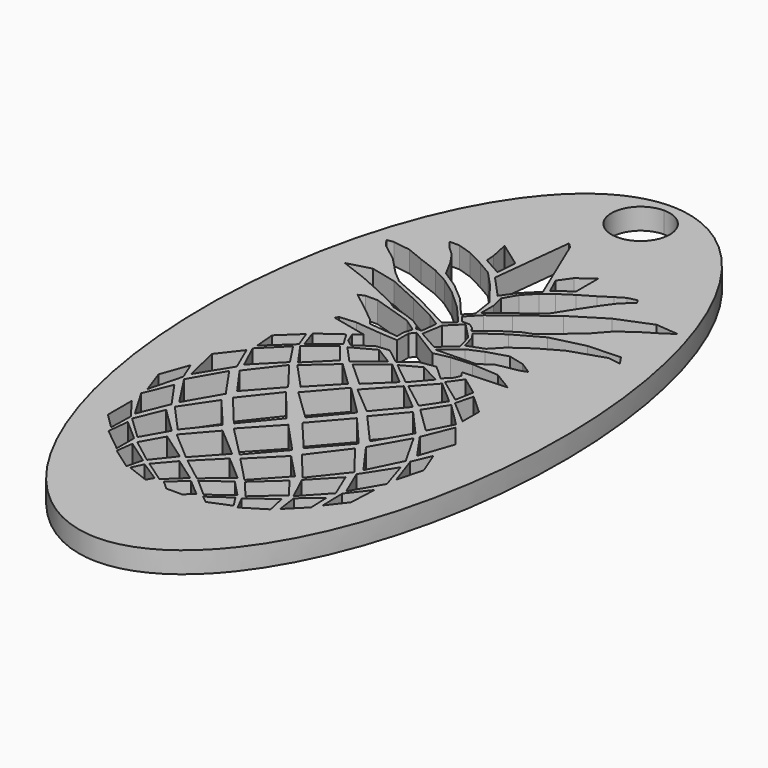
from build123d import *

# Parameters (mm, degrees)
F1_DEPTH = 5.08
F2_SCALE = 0.6


with BuildPart() as f1:
    # F0 (on Top) → F1 (new body)
    with BuildSketch(Plane.XY):
        with BuildLine():
            add(Edge.make_bspline(
                [(0, 86.1269086599), (-42.7598868764, 86.1269086599), (-42.7598868764, 0), (-42.7598868764, -86.1269086599), (0, -86.1269086599)],
                knots=[3.1415926536, 3.1415926536, 3.1415926536, 4.7123889804, 4.7123889804, 6.2831853072, 6.2831853072, 6.2831853072], degree=2, weights=[1, 0.7071067812, 1, 0.7071067812, 1]))
            add(Edge.make_bspline(
                [(0, -86.1269086599), (42.7598868764, -86.1269086599), (42.7598868764, 0), (42.7598868764, 86.1269086599), (0, 86.1269086599)],
                knots=[0, 0, 0, 1.5707963268, 1.5707963268, 3.1415926536, 3.1415926536, 3.1415926536], degree=2, weights=[1, 0.7071067812, 1, 0.7071067812, 1]))
        make_face()
        Polygon((-29.5832022, -45.8294486), (-29.5832022, -38.667436), (-25.7725926, -43.7403494), (-25.8992116, -49.4912396), align=None, mode=Mode.SUBTRACT)
        Polygon((-25.3595124, -50.9485392), (-24.8086626, -45.8294486), (-19.7584822, -50.2598436), (-19.7584822, -55.470552), align=None, mode=Mode.SUBTRACT)
        Polygon((-13.8358372, -59.9936316), (-19.1614552, -56.2291738), (-18.61058, -52.1891006), (-12.82573, -56.2291738), align=None, mode=Mode.SUBTRACT)
        Polygon((-19.5748656, -49.4912396), (-25.0610116, -44.2457332), (-22.2835724, -37.4968008), (-16.1544, -43.4881782), align=None, mode=Mode.SUBTRACT)
        Polygon((-12.413361, -55.6093884), (-18.3223916, -51.1101086), (-15.367889, -45.8294486), (-8.4887054, -50.6498352), align=None, mode=Mode.SUBTRACT)
        Polygon((-12.9173732, -59.9936316), (-11.608943, -57.2851026), (-6.6734944, -60.4528636), (-7.5917806, -62.0599978), align=None, mode=Mode.SUBTRACT)
        Polygon((-1.4851634, -56.298084), (-5.709031, -60.246514), (-11.0575344, -56.5506108), (-7.3388982, -52.1891006), align=None, mode=Mode.SUBTRACT)
        Polygon((1.521714, -62.4272564), (-2.2885654, -62.4272564), (-4.4923964, -60.4528636), (-0.5439664, -57.1703708), (3.4271966, -60.5906586), align=None, mode=Mode.SUBTRACT)
        Polygon((-7.3866248, -50.1971564), (-14.4859248, -44.0793378), (-8.7532972, -37.4968008), (-1.4851634, -43.7148478), align=None, mode=Mode.SUBTRACT)
        Polygon((-0.4126992, -55.6093884), (-6.2714378, -51.1101086), (-0.6393942, -45.4787508), (5.446014, -50.7194312), align=None, mode=Mode.SUBTRACT)
        Polygon((-22.90318, -35.085909), (-25.8873244, -42.385742), (-30.1342552, -35.1775522), (-27.4253706, -28.6122364), align=None, mode=Mode.SUBTRACT)
        Polygon((-32.3835522, -27.1890744), (-29.9962824, -20.4859382), (-28.1598624, -24.9852434), (-30.27172, -33.088453), align=None, mode=Mode.SUBTRACT)
        Polygon((-22.3063054, -33.547685), (-27.4253706, -25.6970022), (-22.9028244, -17.8001422), (-17.6233836, -25.4444754), align=None, mode=Mode.SUBTRACT)
        Polygon((-29.7434, -14.4253204), (-25.6585466, -9.1684602), (-22.9028244, -15.5043378), (-27.700986, -23.2630218), align=None, mode=Mode.SUBTRACT)
        Polygon((-25.245314, -6.5050416), (-25.6585466, -1.5006828), (-20.9987134, 2.9066236), (-19.483578, -1.1565382), align=None, mode=Mode.SUBTRACT)
        Polygon((-15.588361, -42.385742), (-21.8060778, -35.4989892), (-16.6907972, -27.9280366), (-10.1856032, -35.6450646), align=None, mode=Mode.SUBTRACT)
        Polygon((-0.1984248, -43.0534064), (-7.650861, -35.4989892), (-0.6393942, -27.9280366), (6.371717, -35.4907088), align=None, mode=Mode.SUBTRACT)
        Polygon((-2.5355804, -26.1200646), (-8.9296748, -33.8811616), (-15.588361, -25.8406646), (-9.238361, -17.8001422), align=None, mode=Mode.SUBTRACT)
        Polygon((-16.6360094, -23.2630218), (-21.4794846, -16.4682678), (-15.6488384, -8.8701118), (-10.1856032, -16.0321244), align=None, mode=Mode.SUBTRACT)
        Polygon((-22.3517714, -14.0566902), (-25.1982986, -7.8816962), (-19.8037958, -2.5104598), (-16.2687762, -7.8816962), align=None, mode=Mode.SUBTRACT)
        Polygon((-14.9832314, -7.0555612), (-18.885662, -1.5230856), (-13.0550158, 3.1367476), (-9.405112, -1.5230856), align=None, mode=Mode.SUBTRACT)
        Polygon((0.021717, -23.620984), (-7.3866248, -16.477234), (-0.8306054, -8.8701118), (6.371717, -15.9849312), align=None, mode=Mode.SUBTRACT)
        Polygon((-8.444611, -14.463903), (-14.4270222, -7.9668116), (-8.047736, -2.3371556), (-2.2561804, -7.9668116), align=None, mode=Mode.SUBTRACT)
        Polygon((-0.5956554, -6.6400934), (-6.5341246, -1.2784836), (-0.727583, 3.3685988), (4.8727614, -1.3963142), align=None, mode=Mode.SUBTRACT)
        Polygon((9.8088958, -56.2177946), (4.666742, -59.9936316), (0.3972306, -56.2177946), (5.9524646, -52.1891006), align=None, mode=Mode.SUBTRACT)
        Polygon((11.8976648, -59.9936316), (6.8474844, -62.0599978), (5.1490626, -60.6826574), (10.0845112, -57.1703708), align=None, mode=Mode.SUBTRACT)
        Polygon((6.9453252, -50.5440696), (0.9481058, -44.2881258), (7.7018642, -37.4968008), (13.4276338, -43.4940202), align=None, mode=Mode.SUBTRACT)
        Polygon((18.2338726, -56.8262008), (12.9311908, -60.085605), (11.255502, -56.780049), (17.2237908, -52.1891006), align=None, mode=Mode.SUBTRACT)
        Polygon((11.255502, -55.6093884), (7.4745088, -51.1101086), (13.6922002, -45.4787508), (17.3522894, -50.1971564), align=None, mode=Mode.SUBTRACT)
        Polygon((23.6740446, -51.4315202), (19.5192396, -55.6093884), (18.8305694, -50.6053852), (23.4904026, -46.611159), align=None, mode=Mode.SUBTRACT)
        Polygon((18.2338726, -49.9325646), (15.3237946, -43.8471564), (21.0564476, -37.8499116), (23.6740446, -44.0793378), align=None, mode=Mode.SUBTRACT)
        Polygon((28.21813, -45.163867), (24.866727, -49.4795302), (24.7058434, -43.419268), (28.516453, -38.5299712), align=None, mode=Mode.SUBTRACT)
        Polygon((14.4559782, -25.6739136), (7.5626976, -33.547685), (0.9481058, -25.6739136), (7.7390752, -17.8001422), align=None, mode=Mode.SUBTRACT)
        Polygon((14.8807678, -43.0534064), (8.9737946, -35.8214422), (15.147417, -27.6193504), (21.0564476, -35.2350832), align=None, mode=Mode.SUBTRACT)
        Polygon((21.8825826, -33.547685), (16.3821364, -25.8995672), (21.1477352, -17.5651922), (25.7307588, -25.6739136), align=None, mode=Mode.SUBTRACT)
        Polygon((7.4300588, -14.463903), (0.5801614, -8.6868254), (6.5188338, -2.1897086), (13.0744976, -7.7166724), align=None, mode=Mode.SUBTRACT)
        Polygon((15.51432, -23.620984), (8.7526368, -15.9849312), (14.3970756, -9.281795), (20.159345, -15.7716728), align=None, mode=Mode.SUBTRACT)
        Polygon((13.6419082, -6.6400934), (7.1685658, -1.6815562), (11.4611658, 3.116072), (16.9705528, -1.6815562), align=None, mode=Mode.SUBTRACT)
        Polygon((23.8335312, -8.2017616), (20.9868516, -13.6880854), (14.8807678, -7.742174), (18.2094124, -2.6000202), align=None, mode=Mode.SUBTRACT)
        Polygon((24.0171732, -1.5440914), (24.0171732, -6.47954), (18.2783226, -1.589913), (19.35734, 2.6795984), align=None, mode=Mode.SUBTRACT)
        Polygon((28.8148014, -35.1551748), (24.7058434, -42.2251886), (21.8825826, -35.6140512), (26.611326, -28.2453334), align=None, mode=Mode.SUBTRACT)
        Polygon((30.7430424, -26.5455146), (29.0900612, -32.6974454), (26.5882374, -25.373838), (28.4933898, -20.782915), align=None, mode=Mode.SUBTRACT)
        Polygon((28.8148014, -14.6537426), (26.0828536, -22.688042), (21.6755218, -16.3748974), (24.5449598, -9.281795), align=None, mode=Mode.SUBTRACT)
        Polygon((-18.7707778, -0.421005), (-20.2170284, 3.8026848), (-15.0521416, 7.521321), (-13.0550158, 4.1468548), align=None, mode=Mode.SUBTRACT)
        Polygon((-19.483578, 18.3299862), (-23.4817666, 21.3726776), (-21.9824554, 21.99005), (-19.1161416, 21.99005), (-9.7387619317, 18.9904179424), (-6.5341246, 16.7865806), (-7.1657972, 14.8463), (-7.1657972, 12.861925), (-14.2112830654, 13.5938227177), (-15.367889, 14.9785832), align=None, mode=Mode.SUBTRACT)
        Polygon((-7.7375004, -0.7176262), (-11.6451126, 3.550158), (-6.3147465698, 6.4364629798), (-2.074291, 3.8143942), align=None, mode=Mode.SUBTRACT)
        Polygon((-26.877264, 27.4581112), (-33.3595472, 29.92755), (-27.7592028, 31.4268612), (-21.4973916, 29.92755), (-14.145387, 26.5761724), (-7.650861, 23.3129582), (-4.5639439486, 21.3560499251), (-4.6522386, 20.0497694), (-4.9609248, 17.4425102), (-6.3279528, 17.4425102), (-6.8597018, 18.418175), (-8.7973916, 19.6528944), (-11.6451126, 20.7112362), (-15.000986, 21.6372694), (-16.9994834, 22.9160832), (-21.8501722, 25.2091444), align=None, mode=Mode.SUBTRACT)
        Polygon((-1.7418304, 24.4346984), (-4.078986, 22.386925), (-12.986639, 27.0612362), (-20.8359502, 30.5449224), (-23.4834938, 32.7938638), (-27.5387308, 37.0272056), (-31.816167, 40.2904198), (-33.0949808, 42.0983918), (-31.5515752, 42.3629836), (-27.3182334, 41.7456112), (-23.2172002, 40.0699224), (-18.2782972, 38.2178306), (-14.5300446, 36.2334556), (-10.3772040457, 33.2802720368), (-5.7637151331, 29.076712206), align=None, mode=Mode.SUBTRACT)
        Polygon((-1.4331442, 29.1338), (-3.3293304, 27.2376138), (-7.4303636, 32.088328), (-11.7518942, 35.7483918), (-15.9411416, 38.4824224), (-18.0137054, 42.3841672), (-19.953986, 45.2292974), (-22.114764, 47.2136724), (-23.4834938, 48.933481), (-21.0543648, 48.933481), (-17.6168304, 47.8310448), (-13.4276084, 45.6702668), (-10.032111, 43.6858918), (-6.5529751591, 39.9616807699), (-2.2012668196, 34.3352295458), align=None, mode=Mode.SUBTRACT)
        Polygon((-8.3112409338, 49.7640147805), (-8.706850931, 44.884826988), (-13.2783418521, 47.4343113601), (-13.4276084, 49.6390168), (-14.3536416, 54.092856), align=None, mode=Mode.SUBTRACT)
        Polygon((-0.330708, 40.7313892), (-2.6678636, 37.4240806), (-7.6949554, 42.8921418), (-5.5342028, 62.427231), (-4.3876722, 61.2807004), (2.9324808, 43.994578), align=None, mode=Mode.SUBTRACT)
        Polygon((9.5329502, 3.6669472), (5.7681368, -0.7176262), (0.2129282, 3.7585904), (4.626297392, 6.1407587491), align=None, mode=Mode.SUBTRACT)
        Polygon((2.4915114, 7.2019668), (-0.8306054, 4.5716444), (-4.6522386, 7.521321), (-7.7831442, 7.2019668), (-11.6451126, 4.5699172), (-13.2512054, 5.8063638), (-14.145387, 8.099425), (-12.589764, 9.510522), (-20.9682334, 11.4067082), (-20.4831696, 12.1563638), (-16.6360094, 12.46505), (-10.3671327233, 11.856562458), (-6.1515498, 11.5830858), (-6.1515498, 15.066772), (-5.1814222, 16.257397), (2.271014, 11.6272056), (6.019292, 12.4209556), (11.002264, 12.7737108), (17.3963838, 12.3768358), (22.0266006, 9.5546164), (11.4611658, 9.0254582), (12.3251976, 7.8327758), (11.6196364, 6.201156), (9.8998532, 4.5716444), (6.371717, 7.7907388), align=None, mode=Mode.SUBTRACT)
        Polygon((0.9481058, 13.7879582), (-4.078986, 16.6101776), (-3.2662590966, 21.5072780848), (-0.1078988474, 24.6122734623), (3.5962847526, 20.7758066623), (4.652264, 16.9629582), align=None, mode=Mode.SUBTRACT)
        Polygon((17.4752762, -0.4650994), (11.4611658, 3.919474), (13.8024616, 7.2019668), (18.2783226, 3.919474), align=None, mode=Mode.SUBTRACT)
        Polygon((11.4611658, 13.3028944), (1.7418558, 13.082397), (6.1065396294, 16.6646596044), (9.6298428252, 18.1772336364), (14.4559782, 19.6528944), (18.2783226, 18.7268612), (21.1477352, 16.8747694), (19.35734, 16.258794), (14.4559782, 15.3313638), align=None, mode=Mode.SUBTRACT)
        Polygon((9.3265752, 37.8209556), (-0.7716774, 30.0598332), (-0.7716774, 33.7640168), (-1.5419172123, 37.0165854692), (0.286639, 40.1581112), (2.844292, 42.8480474), (5.3578252, 44.788328), (8.5769196, 46.8967312), (11.972417, 48.8893612), (14.7064476, 50.6532642), (16.734917, 51.8879836), (18.9838838, 52.4171418), (19.4689476, 51.4470142), (16.91132, 49.1117636), (14.9710394, 46.4640168), (12.4133864, 42.6716698), align=None, mode=Mode.SUBTRACT)
        Polygon((9.0620088, 19.2560194), (5.1373532, 17.8008026), (4.2112946, 21.0640168), (3.1613211613, 22.6127915084), (8.6688045412, 26.4569427818), (15.1915114, 30.103953), (23.1290114, 32.0442336), (30.9342282, 32.3969888), (32.389445, 30.2362362), (29.3026338, 30.6772056), (21.1484464, 27.9872694), (16.0293558, 25.0768612), (11.7078252, 22.0231208), align=None, mode=Mode.SUBTRACT)
        Polygon((-1.4331442, 25.1076968), (-2.6678636, 26.6643612), (0.1650327758, 29.6048745513), (4.5240991749, 32.9286195338), (12.0606058, 38.7470142), (19.8658226, 43.597703), (27.9356312, 46.8608918), (33.3595726, 46.375828), (30.3609756, 44.391453), (26.5686032, 42.0983918), (23.084917, 39.4084556), (19.909917, 35.8365806), (12.1929144, 29.4865806), (10.208514, 28.7810194), (6.8571364, 26.6643612), (4.652264, 24.9225054), (2.4033226, 23.180675), (1.7418558, 24.1949224), (0.4861052, 25.1076968), align=None, mode=Mode.SUBTRACT)
        Polygon((7.6949808, 47.963328), (3.7328803446, 45.1485663652), (1.9306577742, 49.016751349), (4.034917, 51.9761724), (7.6949808, 54.5779198), (7.6949808, 50.6532642), align=None, mode=Mode.SUBTRACT)
        with BuildLine():
            ThreePointArc((6.9868694352, 76.9573673606), (-4.9404627569, 72.0169046037), (0, 83.9442367957))
            ThreePointArc((0, 83.9442367957), (4.9404627569, 81.8978301175), (6.9868694352, 76.9573673606))
        make_face(mode=Mode.SUBTRACT)
    extrude(amount=F1_DEPTH)


with BuildPart() as f1_1:
    # F2: moved
    add(f1.part.scale(F2_SCALE))


solid = f1_1.part
